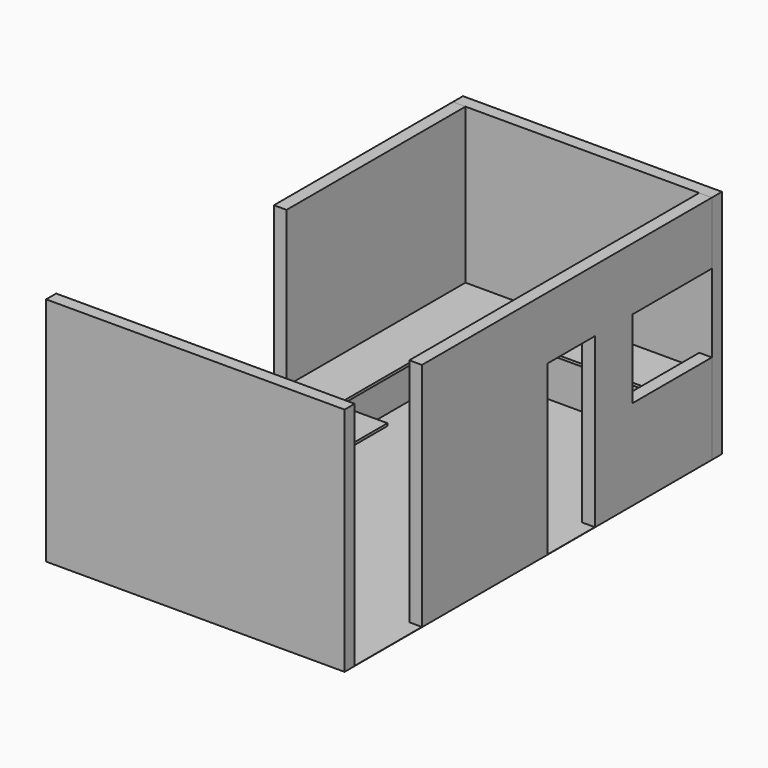
from build123d import *

# Parameters (mm, degrees)
F3_W      = 3080
F3_H      = 150
F4_DEPTH  = 2743.2
F5_W      = 150
F5_H      = 2660
F6_DEPTH  = 2743.2
F7_W      = 150
F7_H      = 4310
F8_DEPTH  = 2743.2
F9_W      = 3550
F9_H      = 150
F10_DEPTH = 2743.2
F11_W     = 3550
F11_H     = 5610
F12_DEPTH = 3
F13_W     = 150
F13_H     = 700
F14_DEPTH = 2000
F15_W     = 150
F15_H     = 1180
F16_DEPTH = 930
F17_W     = 600
F17_H     = 2060
F18_DEPTH = 30


with BuildPart() as f4:
    # F3 (on Top) → F4 (new body)
    with BuildSketch(Plane.XY):
        with Locations((1540, -75)):
            Rectangle(F3_W, F3_H)
    extrude(amount=F4_DEPTH)


with BuildPart() as f6:
    # F5 (on Top) → F6 (new body, through all)
    with BuildSketch(Plane.XY):
        with Locations((75, -1480)):
            Rectangle(F5_W, F5_H)
    extrude(amount=F6_DEPTH)


with BuildPart() as f8:
    # F7 (on Top) → F8 (new body, through all)
    with BuildSketch(Plane.XY):
        with Locations((3005, -2305)):
            Rectangle(F7_W, F7_H)
    extrude(amount=F8_DEPTH)

    # F13 (on Top) → F14 (cut)
    with BuildSketch(Plane.XY):
        with Locations((3005, -2240)):
            Rectangle(F13_W, F13_H)
    extrude(amount=F14_DEPTH, mode=Mode.SUBTRACT)

    # F15 (on offset) → F16 (cut, through all)
    with BuildSketch(Plane.XY.offset(1070)):
        with Locations((3005, -740)):
            Rectangle(F15_W, F15_H)
    extrude(amount=F16_DEPTH, mode=Mode.SUBTRACT)


with BuildPart() as f10:
    # F9 (on Top) → F10 (new body, through all)
    with BuildSketch(Plane.XY):
        with Locations((1305, -5535)):
            Rectangle(F9_W, F9_H)
    extrude(amount=F10_DEPTH)


with BuildPart() as f12:
    # F11 (on Top) → F12 (new body)
    with BuildSketch(Plane.XY):
        with Locations((1305, -2805)):
            Rectangle(F11_W, F11_H)
    extrude(amount=-F12_DEPTH)


with BuildPart() as f18:
    # F17 (on offset) → F18 (new body)
    with BuildSketch(Plane.XY.offset(900)):
        Polygon((2930, -150), (150, -150), (150, -750), (750, -750), (2930, -750), align=None)
        with Locations((450, -1780)):
            Rectangle(F17_W, F17_H)
        Polygon((750, -2810), (150, -2810), (150, -3410), (1350, -3410), (1350, -2810), align=None)
    extrude(amount=-F18_DEPTH)


solid = Compound([f4.part, f6.part, f8.part, f10.part, f12.part, f18.part])
